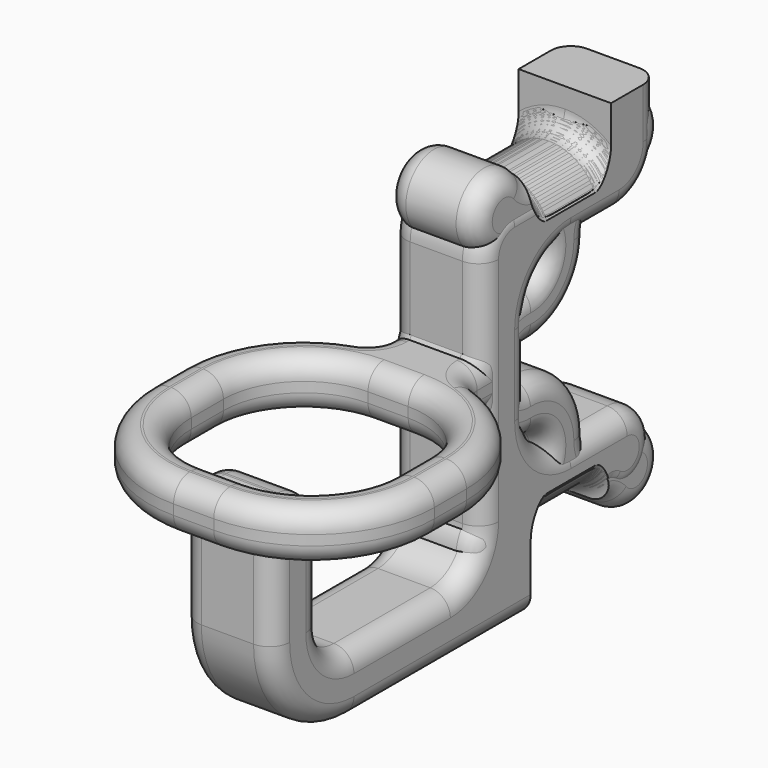
from build123d import *

# Parameters (mm, degrees)
SKETCH001_W       = 100
SKETCH001_H       = 100
PAD_DEPTH         = 2.5
POCKET_DEPTH      = 2.501
POCKET_DEPTH_BACK = 2.501
FILLET_R          = 1
PAD004_DEPTH      = 2.3
FILLET001_R       = 1
PAD005_DEPTH      = 2.25
FILLET002_R       = 1
PAD006_DEPTH      = 1.25
FILLET003_R       = 1


with BuildPart() as hole:
    # Sketch001 → Pad (new body, symmetric)
    with BuildSketch(Plane.XZ):
        Rectangle(SKETCH001_W, SKETCH001_H)
    extrude(amount=PAD_DEPTH, both=True)

    # Sketch → Pocket (cut, two sides)
    with BuildSketch(Plane.XZ) as pocket_sk:
        with BuildLine():
            ThreePointArc((-2.5, -5), (0, -7.5), (2.5, -5))
            Line((2.5, -5), (2.5, 5))
            ThreePointArc((2.5, 5), (0, 7.5), (-2.5, 5))
            Line((-2.5, -5), (-2.5, 5))
        make_face()
    extrude(amount=-POCKET_DEPTH, mode=Mode.SUBTRACT)
    extrude(pocket_sk.sketch, amount=POCKET_DEPTH_BACK, mode=Mode.SUBTRACT)

    # Fillet
    fillet_edges = [hole.edges().sort_by_distance(p)[0] for p in [
        (0, -2.5, -7.5),
        (0, 2.5, -7.5),
    ]]
    fillet(fillet_edges, radius=FILLET_R)


with BuildPart() as body003:
    # Body003 base: copy of Hole
    add(hole.part)


with BuildPart() as obj1:
    # Sketch006 → Pad004 (new body, symmetric)
    with BuildSketch(Plane.YZ):
        with BuildLine():
            Line((2.5, 9.5), (2.5, 8.5))
            ThreePointArc((1.5, 7.5), (2.207107, 7.792893), (2.5, 8.5))
            Line((1.5, 7.5), (-3.5, 7.5))
            ThreePointArc((-3.5, 7.5), (-4.914214, 6.914214), (-5.5, 5.5))
            Line((-5.5, 5.5), (-5.5, -6))
            ThreePointArc((-7.5, -8), (-6.085786, -7.414214), (-5.5, -6))
            Line((-7.5, -8), (-13.5, -8))
            ThreePointArc((-15.5, -6), (-14.914214, -7.414214), (-13.5, -8))
            Line((-15.5, -6), (-15.5, -1.45))
            ThreePointArc((-15.5, -1.45), (-15.924695, -0.424695), (-16.95, 0))
            Line((-16.95, 0), (-17.05, 0))
            ThreePointArc((-17.05, 0), (-18.075305, -0.424695), (-18.5, -1.45))
            Line((-18.5, -1.45), (-18.5, -6))
            ThreePointArc((-18.5, -6), (-17.035534, -9.535534), (-13.5, -11))
            Line((-13.5, -11), (-2.5, -11))
            Line((-2.5, -11), (-2.5, -8.5))
            ThreePointArc((-1.5, -7.5), (-2.207107, -7.792893), (-2.5, -8.5))
            Line((-1.5, -7.5), (1.92504, -7.5))
            ThreePointArc((2.5, -7.681818), (2.226552, -7.546537), (1.92504, -7.5))
            ThreePointArc((2.5, -7.681818), (5.174739, -6.777645), (3.506179, -4.5))
            Line((3.506179, -4.5), (0, -4.5))
            ThreePointArc((-2.5, -2), (-1.767767, -3.767767), (0, -4.5))
            Line((-2.5, -2), (-2.5, 2))
            ThreePointArc((0, 4.5), (-1.767767, 3.767767), (-2.5, 2))
            Line((0, 4.5), (3, 4.5))
            ThreePointArc((3, 4.5), (4.767767, 5.232233), (5.5, 7))
            Line((5.5, 7), (5.5, 9.5))
            Line((5.5, 9.5), (2.5, 9.5))
        make_face()
    extrude(amount=PAD004_DEPTH, both=True)

    # Boolean: cut Body003
    add(body003.part, mode=Mode.SUBTRACT)

    # Fillet001
    fillet001_edges = [obj1.edges().sort_by_distance(p)[0] for p in [
        (2.3, -4.914214, 6.914214),
        (-2.3, -4.914214, 6.914214),
        (2.3, 5.174739, -6.777645),
        (-2.3, 5.174739, -6.777645),
    ]]
    fillet(fillet001_edges, radius=FILLET001_R)


with BuildPart() as body005:
    # Body005 base: copy of Hole
    add(hole.part)


with BuildPart() as body007:
    # Sketch007 → Pad005 (new body, symmetric)
    with BuildSketch(Plane.YZ):
        with BuildLine():
            ThreePointArc((4.081139, 5.5), (5.560159, 8.185414), (2.5, 8))
            Line((2.5, 8), (0, 8))
            Line((0, 8), (-2.5, 8))
            ThreePointArc((-2.5, 8), (-5.560159, 8.185414), (-4.081139, 5.5))
            Line((-4.081139, 5.5), (-2.35, 5.5))
            ThreePointArc((-2.394353, 3.300895), (-1.250224, 4.377819), (-2.35, 5.5))
            ThreePointArc((-2.394353, 3.300895), (-4.815963, 2.382614), (-5.831139, 0))
            Line((-5.831139, 0), (-3.331139, 0))
            ThreePointArc((-2.495156, 0.802928), (-3.084202, 0.57956), (-3.331139, 0))
            ThreePointArc((-2.495156, 0.802928), (0.143736, 1.803602), (1.25, 4.4))
            ThreePointArc((2.35, 5.5), (1.572183, 5.177817), (1.25, 4.4))
            Line((2.35, 5.5), (4.081139, 5.5))
        make_face()
    extrude(amount=PAD005_DEPTH, both=True)

    # Mirrored: Body007 across XY


with BuildPart() as body007_1:
    add(body007.part)
    add(body007.part.mirror(Plane.XY))

    # Fillet002
    fillet002_edges = [body007_1.edges().sort_by_distance(p)[0] for p in [
        (0, 2.35, 5.5),
        (0, 4.081139, 5.5),
        (-2.25, 3.215569, 5.5),
        (2.25, 3.215569, 5.5),
        (0, 1.25, 4.4),
        (-2.25, 1.572183, 5.177817),
        (2.25, 1.572183, 5.177817),
        (0, 2.5, 8),
        (-2.25, 5.560159, 8.185414),
        (2.25, 5.560159, 8.185414),
        (-2.25, 1.25, 8),
        (-2.25, -1.25, 8),
        (-2.25, -5.560159, 8.185414),
        (-2.25, -3.215569, 5.5),
        (-2.25, -1.250224, 4.377819),
        (-2.25, -4.815963, 2.382614),
        (-2.25, -4.581139, 0),
        (-2.25, -3.084202, 0.57956),
        (-2.25, 0.143736, 1.803602),
        (2.25, 1.25, 8),
        (2.25, -1.25, 8),
        (2.25, -5.560159, 8.185414),
        (2.25, -3.215569, 5.5),
        (2.25, -1.250224, 4.377819),
        (2.25, -4.815963, 2.382614),
        (2.25, -4.581139, 0),
        (2.25, -3.084202, 0.57956),
        (2.25, 0.143736, 1.803602),
        (0, -2.495156, 0.802928),
        (0, 0, 8),
        (0, -2.5, 8),
        (0, -4.081139, 5.5),
        (0, -2.35, 5.5),
        (0, -2.394353, 3.300895),
        (0, -5.831139, 0),
        (-2.25, 3.215569, -5.5),
        (-2.25, 5.560159, -8.185414),
        (-2.25, 1.25, -8),
        (-2.25, -1.25, -8),
        (-2.25, -5.560159, -8.185414),
        (-2.25, -3.215569, -5.5),
        (-2.25, -1.250224, -4.377819),
        (-2.25, -4.815963, -2.382614),
        (-2.25, -3.084202, -0.57956),
        (-2.25, 0.143736, -1.803602),
        (-2.25, 1.572183, -5.177817),
        (0, -3.331139, 0),
        (2.25, 3.215569, -5.5),
        (2.25, 5.560159, -8.185414),
        (2.25, 1.25, -8),
        (2.25, -1.25, -8),
        (2.25, -5.560159, -8.185414),
        (2.25, -3.215569, -5.5),
        (2.25, -1.250224, -4.377819),
        (2.25, -4.815963, -2.382614),
        (2.25, -3.084202, -0.57956),
        (2.25, 0.143736, -1.803602),
        (2.25, 1.572183, -5.177817),
        (0, -2.394353, -3.300895),
        (0, 2.35, -5.5),
        (0, 4.081139, -5.5),
        (0, 2.5, -8),
        (0, 0, -8),
        (0, -2.5, -8),
        (0, -4.081139, -5.5),
        (0, -2.35, -5.5),
        (0, -2.495156, -0.802928),
        (0, 1.25, -4.4),
    ]]
    fillet(fillet002_edges, radius=FILLET002_R)

    # Boolean001: cut Body005
    add(body005.part, mode=Mode.SUBTRACT)


with BuildPart() as bone_and_ring:
    # Sketch009 → Pad006 (new body, symmetric)
    with BuildSketch(Plane.XY):
        with BuildLine():
            Line((-7.1, -12.5), (-7.1, -14.5))
            ThreePointArc((-7.1, -14.5), (-5.313351, -18.813351), (-1, -20.6))
            Line((-1, -20.6), (1, -20.6))
            ThreePointArc((1, -20.6), (5.313351, -18.813351), (7.1, -14.5))
            Line((7.1, -14.5), (7.1, -12.5))
            ThreePointArc((7.1, -12.5), (5.734712, -8.653898), (2.25, -6.529447))
            Line((2.25, -6.529447), (2.25, -3.8))
            Line((2.25, -3.8), (-2.25, -3.8))
            Line((-2.25, -3.8), (-2.25, -6.529447))
            ThreePointArc((-2.25, -6.529447), (-5.734712, -8.653898), (-7.1, -12.5))
        make_face()
        with BuildLine():
            Line((-5, -12.5), (-5, -14.5))
            ThreePointArc((-5, -14.5), (-3.828427, -17.328427), (-1, -18.5))
            Line((-1, -18.5), (1, -18.5))
            ThreePointArc((1, -18.5), (3.828427, -17.328427), (5, -14.5))
            Line((5, -14.5), (5, -12.5))
            ThreePointArc((5, -12.5), (3.828427, -9.671573), (1, -8.5))
            Line((1, -8.5), (-1, -8.5))
            ThreePointArc((-1, -8.5), (-3.828427, -9.671573), (-5, -12.5))
        make_face(mode=Mode.SUBTRACT)
    extrude(amount=PAD006_DEPTH, both=True)

    # Fillet003
    fillet003_edges = [bone_and_ring.edges().sort_by_distance(p)[0] for p in [
        (-7.1, -12.5, 0),
        (-7.1, -14.5, 0),
        (-7.1, -13.5, -1.25),
        (-7.1, -13.5, 1.25),
        (-1, -20.6, 0),
        (-5.313351, -18.813351, -1.25),
        (-5.313351, -18.813351, 1.25),
        (1, -20.6, 0),
        (0, -20.6, -1.25),
        (0, -20.6, 1.25),
        (7.1, -14.5, 0),
        (5.313351, -18.813351, -1.25),
        (5.313351, -18.813351, 1.25),
        (7.1, -12.5, 0),
        (7.1, -13.5, -1.25),
        (7.1, -13.5, 1.25),
        (2.25, -6.529447, 0),
        (5.734712, -8.653898, -1.25),
        (5.734712, -8.653898, 1.25),
        (2.25, -3.8, 0),
        (2.25, -5.164724, -1.25),
        (2.25, -5.164724, 1.25),
        (-2.25, -3.8, 0),
        (0, -3.8, -1.25),
        (0, -3.8, 1.25),
        (-2.25, -6.529447, 0),
        (-2.25, -5.164724, -1.25),
        (-2.25, -5.164724, 1.25),
        (-5.734712, -8.653898, -1.25),
        (-5.734712, -8.653898, 1.25),
        (-5, -12.5, 0),
        (-5, -14.5, 0),
        (-5, -13.5, -1.25),
        (-5, -13.5, 1.25),
        (-1, -18.5, 0),
        (-3.828427, -17.328427, -1.25),
        (-3.828427, -17.328427, 1.25),
        (1, -18.5, 0),
        (0, -18.5, -1.25),
        (0, -18.5, 1.25),
        (5, -14.5, 0),
        (3.828427, -17.328427, -1.25),
        (3.828427, -17.328427, 1.25),
        (5, -12.5, 0),
        (5, -13.5, -1.25),
        (5, -13.5, 1.25),
        (1, -8.5, 0),
        (3.828427, -9.671573, -1.25),
        (3.828427, -9.671573, 1.25),
        (-1, -8.5, 0),
        (0, -8.5, -1.25),
        (0, -8.5, 1.25),
        (-3.828427, -9.671573, -1.25),
        (-3.828427, -9.671573, 1.25),
    ]]
    fillet(fillet003_edges, radius=FILLET003_R)

    # Boolean002: union Body007
    add(body007_1.part)


solid = Compound([obj1.part, bone_and_ring.part])
